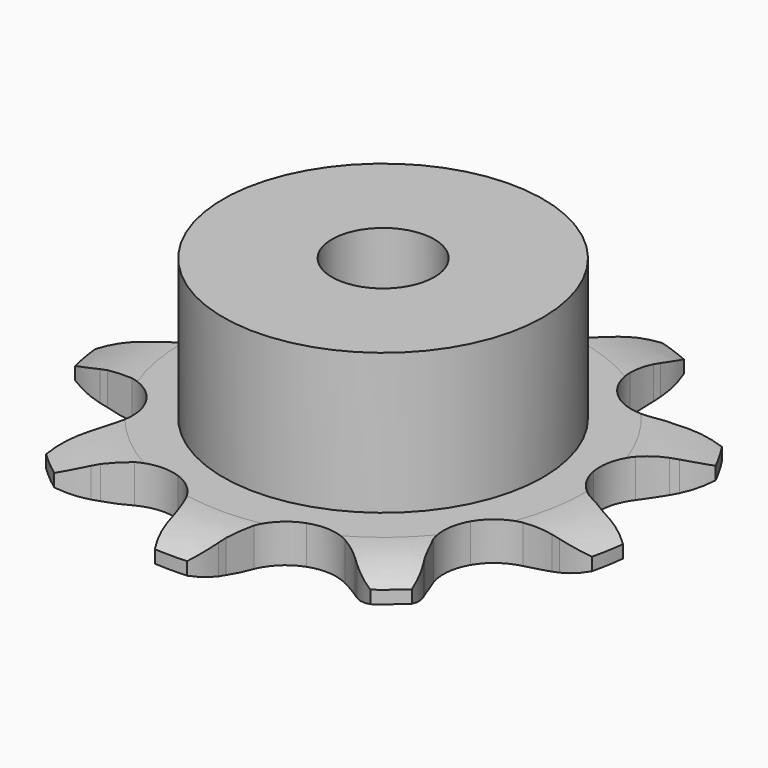
from build123d import *

# Parameters (mm, degrees)
PAD_DEPTH         = 3
SKETCH001_R       = 12.5
PAD001_DEPTH      = 14
SKETCH002_R       = 4
POCKET_DEPTH      = 0.0010001
POCKET_DEPTH_BACK = 14.001


with BuildPart() as part:
    # Sprocket → Pad (new body)
    with BuildSketch(Plane.XY):
        with BuildLine():
            ThreePointArc((-7.6303746848, 20.9642821485), (-5.8100710473, 19.821896591), (-4.451147124, 18.1570014396))
            Line((-4.451147124, 18.1570014396), (-4.1532335303, 17.6386812464))
            ThreePointArc((-4.1532335303, 17.6386812464), (-3.5888266288, 16.7640111273), (-2.937657417, 15.9518648194))
            ThreePointArc((-2.937657417, 15.9518648194), (-1.6099250421, 14.9783311636), (0, 14.633682941))
            ThreePointArc((0, 14.633682941), (1.6099250421, 14.9783311636), (2.937657417, 15.9518648194))
            ThreePointArc((2.937657417, 15.9518648194), (3.5888266288, 16.7640111273), (4.1532335303, 17.6386812464))
            Line((4.1532335303, 17.6386812464), (4.451147124, 18.1570014396))
            ThreePointArc((4.451147124, 18.1570014396), (5.8100710473, 19.821896591), (7.6303746848, 20.9642821485))
            ThreePointArc((7.6303746848, 20.9642821485), (8.2904968893, 18.9190954163), (8.2613190345, 16.7702122767))
            Line((8.2613190345, 16.7702122767), (8.1563642895, 16.1816608061))
            ThreePointArc((8.1563642895, 16.1816608061), (8.026497945, 15.1488308587), (8.0032849172, 14.1081271915))
            ThreePointArc((8.0032849172, 14.1081271915), (8.3946115535, 12.5089072247), (9.4063500786, 11.2100514993))
            ThreePointArc((9.4063500786, 11.2100514993), (10.8611598181, 10.4392274855), (12.5040371974, 10.3315476131))
            Line((12.5040371974, 10.3315476131), (14.5194872232, 10.8423666993))
            ThreePointArc((14.5194872232, 10.8423666993), (14.7986632538, 10.9492885232), (15.0808720743, 11.0479278363))
            ThreePointArc((15.0808720743, 11.0479278363), (17.1920421691, 11.449812055), (19.3207869373, 11.1548615392))
            ThreePointArc((19.3207869373, 11.1548615392), (18.5118491928, 9.1638392339), (17.1082222025, 7.5364544094))
            Line((17.1082222025, 7.5364544094), (16.6495086104, 7.1530614356))
            ThreePointArc((16.6495086104, 7.1530614356), (15.8861349257, 6.4453442709), (15.1994012921, 5.6630400563))
            ThreePointArc((15.1994012921, 5.6630400563), (14.4712161074, 4.1864265743), (14.4113644155, 2.5411123753))
            ThreePointArc((14.4113644155, 2.5411123753), (15.0303372069, 1.0154932479), (16.2196390062, -0.1230155437))
            Line((16.2196390062, -0.1230155437), (18.0919114783, -1.0272117258))
            ThreePointArc((18.0919114783, -1.0272117258), (18.3745007488, -1.1247557501), (18.6540893757, -1.2305939857))
            ThreePointArc((18.6540893757, -1.2305939857), (20.5296656917, -2.279766792), (21.9707882551, -3.8740427568))
            ThreePointArc((21.9707882551, -3.8740427568), (20.0713015227, -4.8792791708), (17.9499980652, -5.2236942344))
            Line((17.9499980652, -5.2236942344), (17.3521628138, -5.2225348781))
            ThreePointArc((17.3521628138, -5.2225348781), (16.3124728199, -5.2739905334), (15.2835488799, -5.4318464589))
            ThreePointArc((15.2835488799, -5.4318464589), (13.776577815, -6.0949295972), (12.6731411779, -7.3168414705))
            ThreePointArc((12.6731411779, -7.3168414705), (12.166652773, -8.8834015664), (12.3458914628, -10.5200183605))
            Line((12.3458914628, -10.5200183605), (13.1989292835, -12.4161463683))
            ThreePointArc((13.1989292835, -12.4161463683), (13.3527051336, -12.6725143077), (13.4988509412, -12.9333072052))
            ThreePointArc((13.4988509412, -12.9333072052), (14.2612304754, -14.9426174203), (14.3404135703, -17.0902393917))
            ThreePointArc((14.3404135703, -17.0902393917), (12.2391688024, -16.6393286243), (10.3927703412, -15.539618291))
            Line((10.3927703412, -15.539618291), (9.9355471888, -15.1544490803))
            ThreePointArc((9.9355471888, -15.1544490803), (9.1060233888, -14.5255665531), (8.216354089, -13.9851116478))
            ThreePointArc((8.216354089, -13.9851116478), (6.6357256534, -13.5244004725), (5.0050143369, -13.7511638746))
            ThreePointArc((5.0050143369, -13.7511638746), (3.6100562893, -14.6256540598), (2.6953640947, -15.9945876694))
            Line((2.6953640947, -15.9945876694), (2.1300213871, -17.9954281349))
            ThreePointArc((2.1300213871, -17.9954281349), (2.0830303876, -18.2906625814), (2.0273501282, -18.5843822457))
            ThreePointArc((2.0273501282, -18.5843822457), (1.3198070237, -20.6136512889), (0, -22.3097230784))
            ThreePointArc((0, -22.3097230784), (-1.3198070237, -20.6136512889), (-2.0273501282, -18.5843822457))
            Line((-2.0273501282, -18.5843822457), (-2.1300213871, -17.9954281349))
            ThreePointArc((-2.1300213871, -17.9954281349), (-2.3612355881, -16.980468549), (-2.6953640947, -15.9945876694))
            ThreePointArc((-2.6953640947, -15.9945876694), (-3.6100562893, -14.6256540598), (-5.0050143369, -13.7511638746))
            ThreePointArc((-5.0050143369, -13.7511638746), (-6.6357256534, -13.5244004725), (-8.216354089, -13.9851116478))
            Line((-8.216354089, -13.9851116478), (-9.9355471888, -15.1544490803))
            ThreePointArc((-9.9355471888, -15.1544490803), (-10.161317427, -15.3504065552), (-10.3927703412, -15.539618291))
            ThreePointArc((-10.3927703412, -15.539618291), (-12.2391688024, -16.6393286243), (-14.3404135703, -17.0902393917))
            ThreePointArc((-14.3404135703, -17.0902393917), (-14.2612304754, -14.9426174203), (-13.4988509412, -12.9333072052))
            Line((-13.4988509412, -12.9333072052), (-13.1989292835, -12.4161463683))
            ThreePointArc((-13.1989292835, -12.4161463683), (-12.7236461912, -11.4900205939), (-12.3458914628, -10.5200183605))
            ThreePointArc((-12.3458914628, -10.5200183605), (-12.166652773, -8.8834015664), (-12.6731411779, -7.3168414705))
            ThreePointArc((-12.6731411779, -7.3168414705), (-13.776577815, -6.0949295972), (-15.2835488799, -5.4318464589))
            Line((-15.2835488799, -5.4318464589), (-17.3521628138, -5.2225348781))
            ThreePointArc((-17.3521628138, -5.2225348781), (-17.6510718871, -5.2275247011), (-17.9499980652, -5.2236942344))
            ThreePointArc((-17.9499980652, -5.2236942344), (-20.0713015227, -4.8792791708), (-21.9707882551, -3.8740427568))
            ThreePointArc((-21.9707882551, -3.8740427568), (-20.5296656917, -2.279766792), (-18.6540893757, -1.2305939857))
            Line((-18.6540893757, -1.2305939857), (-18.0919114783, -1.0272117258))
            ThreePointArc((-18.0919114783, -1.0272117258), (-17.1325213338, -0.6232643056), (-16.2196390062, -0.1230155437))
            ThreePointArc((-16.2196390062, -0.1230155437), (-15.0303372069, 1.0154932479), (-14.4113644155, 2.5411123753))
            ThreePointArc((-14.4113644155, 2.5411123753), (-14.4712161074, 4.1864265743), (-15.1994012921, 5.6630400563))
            Line((-15.1994012921, 5.6630400563), (-16.6495086104, 7.1530614356))
            ThreePointArc((-16.6495086104, 7.1530614356), (-16.8816936414, 7.3413740582), (-17.1082222025, 7.5364544094))
            ThreePointArc((-17.1082222025, 7.5364544094), (-18.5118491928, 9.1638392339), (-19.3207869373, 11.1548615392))
            ThreePointArc((-19.3207869373, 11.1548615392), (-17.1920421691, 11.449812055), (-15.0808720743, 11.0479278363))
            Line((-15.0808720743, 11.0479278363), (-14.5194872232, 10.8423666993))
            ThreePointArc((-14.5194872232, 10.8423666993), (-13.5248993376, 10.5351242782), (-12.5040371974, 10.3315476131))
            ThreePointArc((-12.5040371974, 10.3315476131), (-10.8611598181, 10.4392274855), (-9.4063500786, 11.2100514993))
            ThreePointArc((-9.4063500786, 11.2100514993), (-8.3946115535, 12.5089072247), (-8.0032849172, 14.1081271915))
            Line((-8.0032849172, 14.1081271915), (-8.1563642895, 16.1816608061))
            ThreePointArc((-8.1563642895, 16.1816608061), (-8.2131833217, 16.4751623053), (-8.2613190345, 16.7702122767))
            ThreePointArc((-8.2613190345, 16.7702122767), (-8.2904968893, 18.9190954163), (-7.6303746848, 20.9642821485))
        make_face()
    extrude(amount=PAD_DEPTH)

    # Sketch → Groove (revolve, cut)
    with BuildSketch(Plane.XZ):
        with BuildLine():
            Line((15.75, 0), (20.75, 0))
            Line((25.75, 0), (20.75, 0))
            Line((25.75, 3), (25.75, 0))
            Line((20.75, 3), (25.75, 3))
            Line((15.75, 3), (20.75, 3))
            ThreePointArc((20.75, 2), (18.2995097568, 2.747548784), (15.75, 3))
            Line((20.75, 1), (20.75, 2))
            ThreePointArc((15.75, 0), (18.2995097568, 0.252451216), (20.75, 1))
        make_face()
    revolve(axis=Axis((0, 0, 0), (0, 0, 1)), mode=Mode.SUBTRACT)

    # Sketch001 → Pad001 (join)
    with BuildSketch(Plane.XY):
        Circle(SKETCH001_R)
    extrude(amount=PAD001_DEPTH)

    # Sketch002 → Pocket (cut, two sides)
    with BuildSketch(Plane.XY) as pocket_sk:
        Circle(SKETCH002_R)
    extrude(amount=-POCKET_DEPTH, mode=Mode.SUBTRACT)
    extrude(pocket_sk.sketch, amount=POCKET_DEPTH_BACK, mode=Mode.SUBTRACT)


solid = part.part
